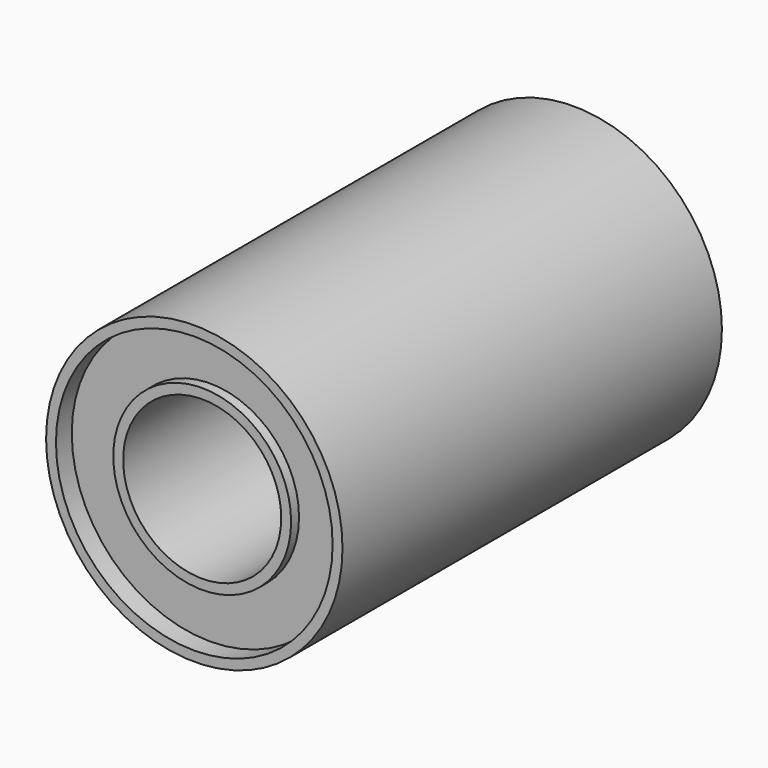
from build123d import *

# Parameters (mm, degrees)
F0_R     = 7.5
F0_R_2   = 7
F1_DEPTH = 12
F0_R_3   = 4.5
F2_DEPTH = 11
F0_R_4   = 4
F3_DEPTH = 11.5


with BuildPart() as f1:
    # F0 (on Front) → F1 (new body, symmetric)
    with BuildSketch(Plane.XZ):
        Circle(F0_R)
        Circle(F0_R_2, mode=Mode.SUBTRACT)
    extrude(amount=F1_DEPTH, both=True)


with BuildPart() as f2:
    # F0 (on Front) → F2 (new body, symmetric)
    with BuildSketch(Plane.XZ):
        Circle(F0_R_2)
        Circle(F0_R_3, mode=Mode.SUBTRACT)
    extrude(amount=F2_DEPTH, both=True)

    # F0 (on Front) → F3 (join, symmetric)
    with BuildSketch(Plane.XZ):
        Circle(F0_R_3)
        Circle(F0_R_4, mode=Mode.SUBTRACT)
    extrude(amount=F3_DEPTH, both=True)


solid = Compound([f1.part, f2.part])
